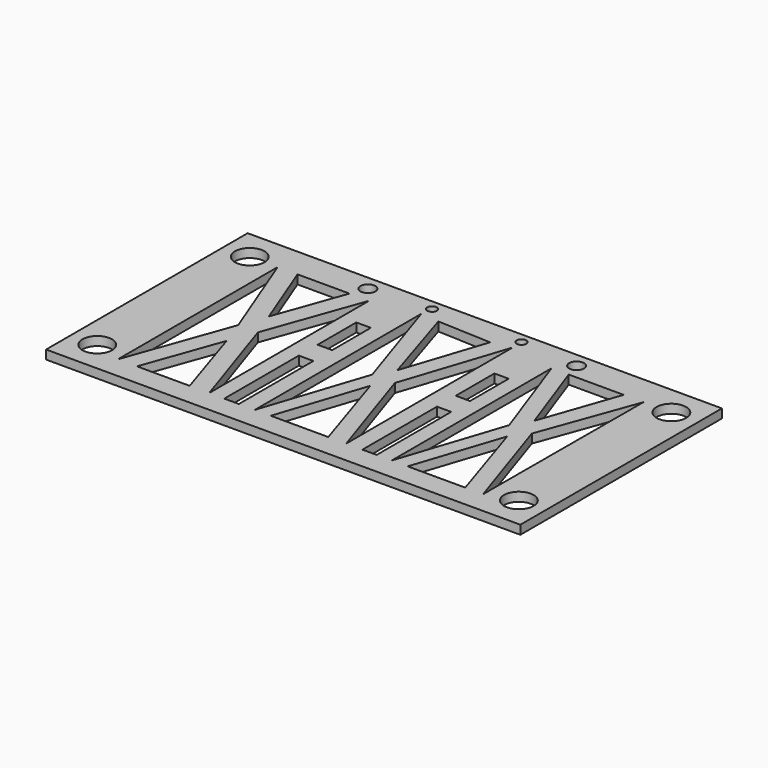
from build123d import *

# Parameters (mm, degrees)
F0_W     = 203.2
F0_H     = 107.95
F0_R     = 6.35
F0_W_2   = 6.241719
F0_H_2   = 39.914953
F0_W_3   = 6.110449
F0_H_3   = 20.712627
F0_R_2   = 3.175
F0_R_3   = 2.032
F1_DEPTH = 3.81


with BuildPart() as f1:
    # F0 (on Top) → F1 (new body)
    with BuildSketch(Plane.XY):
        Rectangle(F0_W, F0_H)
        with Locations((-90.384334, -40.571574)):
            Circle(F0_R, mode=Mode.SUBTRACT)
        Polygon((-70.239306, -44.499584), (-58.358815, -11.379985), (-47.664523, -44.499584), align=None, mode=Mode.SUBTRACT)
        Polygon((-78.422842, -44.499584), (-78.422842, 41.098658), (-62.460182, 0), align=None, mode=Mode.SUBTRACT)
        with Locations((-29.705754, -24.542108)):
            Rectangle(F0_W_2, F0_H_2, mode=Mode.SUBTRACT)
        Polygon((-0.468436, -6.741259), (11.723696, -44.499584), (-12.928423, -44.499584), align=None, mode=Mode.SUBTRACT)
        Polygon((-39.29076, -44.499584), (-54.033458, 0), (-39.29076, 41.098658), align=None, mode=Mode.SUBTRACT)
        with Locations((90.232521, -40.571574)):
            Circle(F0_R, mode=Mode.SUBTRACT)
        with Locations((29.41061, -24.542108)):
            Rectangle(F0_W_3, F0_H_2, mode=Mode.SUBTRACT)
        Polygon((38.925158, 41.098658), (53.609714, 0), (38.925158, -44.499584), align=None, mode=Mode.SUBTRACT)
        Polygon((58.205564, -6.741259), (70.397696, -44.499584), (45.745577, -44.499584), align=None, mode=Mode.SUBTRACT)
        Polygon((63.314542, 0), (78.296103, 41.098658), (78.05724, -44.499584), align=None, mode=Mode.SUBTRACT)
        Polygon((-58.358815, 11.285863), (-69.938062, 41.098658), (-47.664523, 41.098658), align=None, mode=Mode.SUBTRACT)
        Polygon((-19.748842, 44.675777), (-5.064286, 0), (-19.748842, -44.499584), align=None, mode=Mode.SUBTRACT)
        with Locations((-29.705754, 15.835947)):
            Rectangle(F0_W_2, F0_H_3, mode=Mode.SUBTRACT)
        Polygon((-11.855267, 43.925706), (11.135206, 42.892437), (-0.468436, 7.729149), align=None, mode=Mode.SUBTRACT)
        with Locations((-90.384334, 41.098658)):
            Circle(F0_R, mode=Mode.SUBTRACT)
        with Locations((-45.028675, 47.695097)):
            Circle(F0_R_2, mode=Mode.SUBTRACT)
        with Locations((-19.079942, 49.579799)):
            Circle(F0_R_3, mode=Mode.SUBTRACT)
        Polygon((4.640542, 0), (19.38324, 44.675777), (19.38324, -44.499584), align=None, mode=Mode.SUBTRACT)
        with Locations((29.41061, 15.835947)):
            Rectangle(F0_W_3, F0_H_3, mode=Mode.SUBTRACT)
        Polygon((58.205564, 7.729149), (46.256244, 41.098658), (69.814965, 41.098658), align=None, mode=Mode.SUBTRACT)
        with Locations((19.234434, 49.579799)):
            Circle(F0_R_3, mode=Mode.SUBTRACT)
        with Locations((44.371553, 47.695097)):
            Circle(F0_R_2, mode=Mode.SUBTRACT)
        with Locations((90.232521, 41.098658)):
            Circle(F0_R, mode=Mode.SUBTRACT)
    extrude(amount=F1_DEPTH)


solid = f1.part
